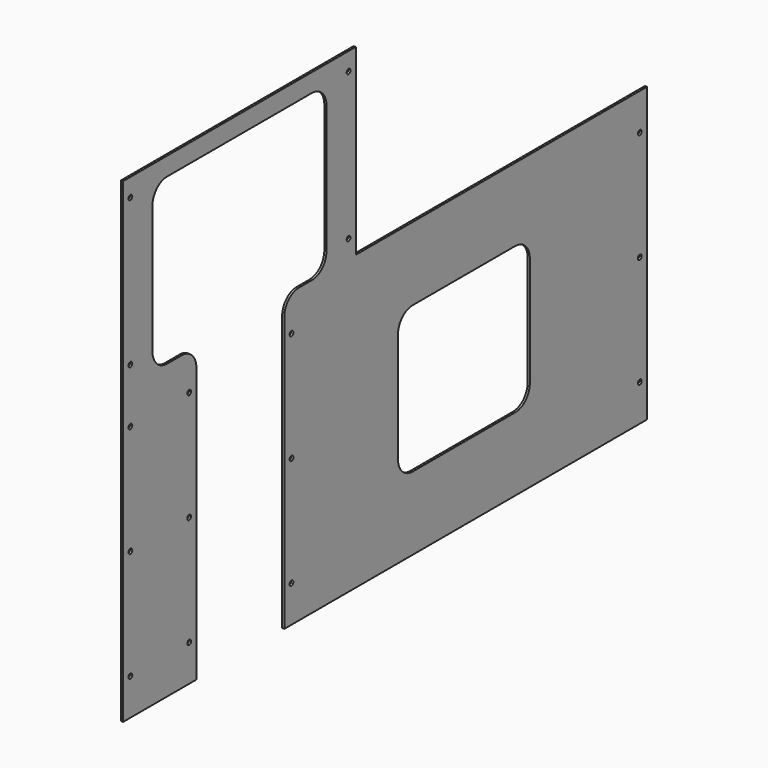
from build123d import *

# Parameters (mm, degrees)
F1_DEPTH = 3
F3_D     = 6.6


with BuildPart() as f1:
    # F0 (on Right) → F1 (new body)
    with BuildSketch(Plane.YZ):
        with BuildLine():
            Line((-184.9059642707, 355.6), (-588.3059642707, 355.6))
            Line((-588.3059642707, 355.6), (-588.3059642707, -304.8))
            Line((-588.3059642707, -304.8), (-461.3059642707, -304.8))
            Line((-461.3059642707, -304.8), (-461.3059642707, 76.2))
            ThreePointArc((-461.3059642707, 76.2), (-468.7454520285, 94.1605122421), (-486.7059642707, 101.6))
            Line((-486.7059642707, 101.6), (-512.1059642707, 101.6))
            ThreePointArc((-512.1059642707, 101.6), (-530.0664765128, 109.0394877579), (-537.5059642707, 127))
            Line((-537.5059642707, 127), (-537.5059642707, 304.8))
            ThreePointArc((-537.5059642707, 304.8), (-530.0664765128, 322.7605122421), (-512.1059642707, 330.2))
            Line((-512.1059642707, 330.2), (-261.1059642707, 330.2))
            ThreePointArc((-261.1059642707, 330.2), (-243.1454520285, 322.7605122421), (-235.7059642707, 304.8))
            Line((-235.7059642707, 304.8), (-235.7059642707, 127))
            ThreePointArc((-235.7059642707, 127), (-243.1454520285, 109.0394877579), (-261.1059642707, 101.6))
            Line((-261.1059642707, 101.6), (-283.5059642707, 101.6))
            ThreePointArc((-283.5059642707, 101.6), (-301.4664765128, 94.1605122421), (-308.9059642707, 76.2))
            Line((-308.9059642707, 76.2), (-308.9059642707, -304.8))
            Line((-308.9059642707, -304.8), (-184.9059642707, -304.8))
            Line((-184.9059642707, -304.8), (320.0940357293, -304.8))
            Line((320.0940357293, -304.8), (320.0940357293, 101.6))
            Line((320.0940357293, 101.6), (-184.9059642707, 101.6))
            Line((-184.9059642707, 101.6), (-184.9059642707, 355.6))
        make_face()
        with BuildLine():
            ThreePointArc((-111.7059642707, -25.4), (-104.2664765128, -7.4394877579), (-86.3059642707, 0))
            Line((-86.3059642707, 0), (91.4940357293, 0))
            ThreePointArc((91.4940357293, 0), (109.4545479715, -7.4394877579), (116.8940357293, -25.4))
            Line((116.8940357293, -25.4), (116.8940357293, -177.8))
            ThreePointArc((116.8940357293, -177.8), (109.4545479715, -195.7605122421), (91.4940357293, -203.2))
            Line((91.4940357293, -203.2), (-86.3059642707, -203.2))
            ThreePointArc((-86.3059642707, -203.2), (-104.2664765128, -195.7605122421), (-111.7059642707, -177.8))
            Line((-111.7059642707, -177.8), (-111.7059642707, -25.4))
        make_face(mode=Mode.SUBTRACT)
    extrude(amount=F1_DEPTH)

    # F3 (through all)
    with Locations(Plane.YZ.offset(3)):
        with Locations((-575.8059642707, 50.8), (-575.8059642707, 126.6), (-575.8059642707, 330.6), (-575.8059642707, -101.6), (-575.8059642707, -254), (-473.8059642707, -101.6), (-473.8059642707, 50.8), (-197.4059642707, 330.6), (-197.4059642707, 126.6), (-296.4059642707, 50.8), (-296.4059642707, -101.6), (-296.4059642707, -254), (307.5940357293, 50.8), (307.5940357293, -101.6), (307.5940357293, -254), (-473.8059642707, -254)):
            Hole(F3_D / 2)


solid = f1.part
